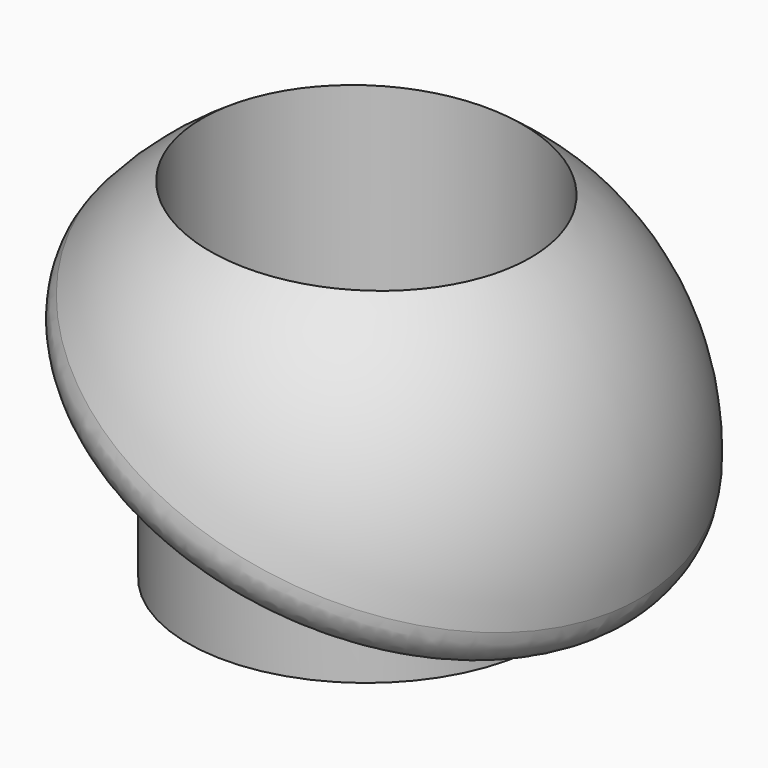
from build123d import *

# Parameters (mm, degrees)
F0_R      = 12.5
F1_DEPTH  = 15
F3_DEPTH  = 15
F5_DEPTH  = 13
F10_R     = 3
F11_R     = 11.5
F12_DEPTH = 12.6699203183
F14_R     = 11.5
F15_DEPTH = 13


with BuildPart() as f1:
    # F0 (on Top) → F1 (new body)
    with BuildSketch(Plane.XY):
        Circle(F0_R)
    extrude(amount=-F1_DEPTH)

    # F2 (on Front) → F3 (cut, symmetric)
    with BuildSketch(Plane.XZ):
        Polygon((12.5, 0), (-12.5, 0), (12.5, -11.3443713635), align=None)
    extrude(amount=F3_DEPTH, both=True, mode=Mode.SUBTRACT)

    # F4 (on Right) → F5 (join)
    with BuildSketch(Plane.YZ):
        with BuildLine():
            add(Edge.make_bspline(
                [(4.1614882648, -4.4021867216), (2.3196844094, -4.4021867216), (3.2405863371, -9.0699917637), (4.1614882648, -13.7377968058), (5.0823901925, -9.0699917637), (6.0032921202, -4.4021867216), (4.1614882648, -4.4021867216)],
                knots=[0, 0, 0, 2.0943951024, 2.0943951024, 4.1887902048, 4.1887902048, 6.2831853072, 6.2831853072, 6.2831853072], degree=2, weights=[1, 0.5, 1, 0.5, 1, 0.5, 1]))
        make_face()
        with BuildLine():
            add(Edge.make_bspline(
                [(-4.1614882648, -4.4021867216), (-6.0032921202, -4.4021867216), (-5.0823901925, -9.0699917637), (-4.1614882648, -13.7377968058), (-3.2405863371, -9.0699917637), (-2.3196844094, -4.4021867216), (-4.1614882648, -4.4021867216)],
                knots=[0, 0, 0, 2.0943951024, 2.0943951024, 4.1887902048, 4.1887902048, 6.2831853072, 6.2831853072, 6.2831853072], degree=2, weights=[1, 0.5, 1, 0.5, 1, 0.5, 1]))
        make_face()
    extrude(amount=-F5_DEPTH)

    # F8 (on Front) → F9 (revolve)
    with BuildSketch(Plane.XZ):
        with BuildLine():
            Line((0, -5.6721856818), (18.2126128557, -13.9366114312))
            ThreePointArc((18.2126128557, -13.9366114312), (17.6536526203, 0.5365345313), (7.5079209485, 10.8732902815))
            Line((7.5079209485, 10.8732902815), (0, -5.6721856818))
        make_face()
    revolve(axis=Axis((3.7539604743, 0, 2.6005522999), (0.4132212875, 0, 0.9106306428)))

    # F10
    f10_edges = [f1.edges().sort_by_distance(p)[0] for p in [
        (-18.212613, 0, 2.59224),
    ]]
    fillet(f10_edges, radius=F10_R)

    # F11 (on Top) → F12 (cut, through all)
    with BuildSketch(Plane.XY):
        Circle(F11_R)
    extrude(amount=F12_DEPTH, mode=Mode.SUBTRACT)

    # F14 (on face) → F15 (cut)
    with BuildSketch(Plane.XY):
        Circle(F14_R)
    extrude(amount=-F15_DEPTH, mode=Mode.SUBTRACT)


solid = f1.part
